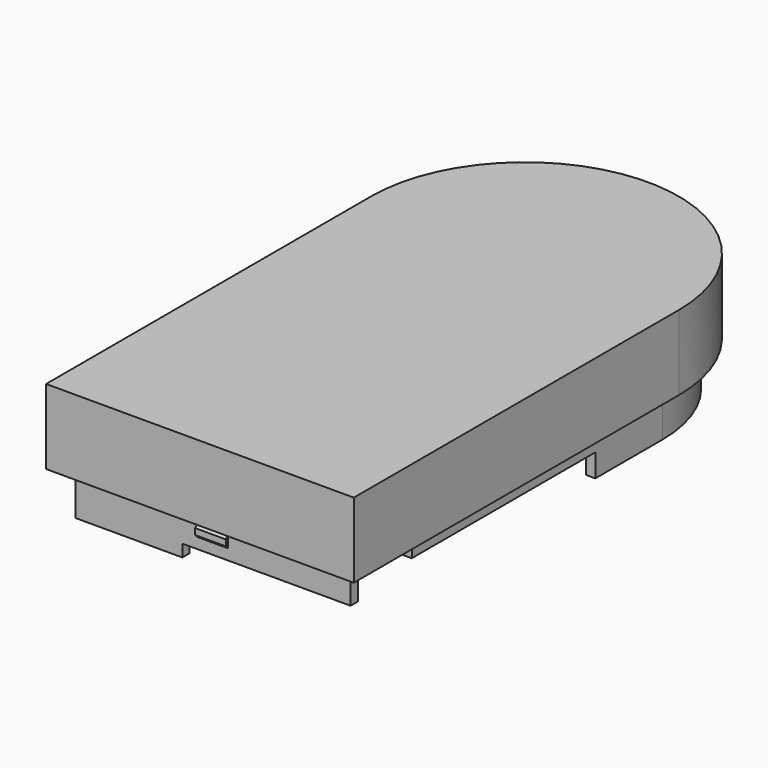
from build123d import *

# Parameters (mm, degrees)
PAD002_DEPTH    = 2.9
PAD003_DEPTH    = 4.9
POCKET005_DEPTH = 4.1
POCKET006_DEPTH = 11
SKETCH011_W     = 10
SKETCH011_H     = 3.6
POCKET007_DEPTH = 5
PAD004_DEPTH    = 2


with BuildPart() as part:
    # Sketch008 (on Face1 of ReferencePocket001) → Pad002 (new body)
    with BuildSketch(Plane.XY.offset(3.9)):
        with BuildLine():
            Line((0.2, 0.2), (18.2000000001, 0.2))
            Line((18.2000000001, 0.2), (18.2000000001, 25.6999686791))
            ThreePointArc((18.2000000001, 25.6999686791), (9.2000000001, 34.6999686791), (0.2, 25.6999686791))
            Line((0.2, 0.2), (0.2, 25.6999686791))
        make_face()
        with BuildLine():
            Line((0.8, 0.8), (17.6000000001, 0.8))
            Line((17.6000000001, 0.8), (17.6000000001, 25.6999686791))
            ThreePointArc((17.6000000001, 25.6999686791), (9.2000000001, 34.0999686791), (0.8, 25.6999686791))
            Line((0.8, 0.8), (0.8, 25.6999686791))
        make_face(mode=Mode.SUBTRACT)
    extrude(amount=-PAD002_DEPTH)

    # Sketch009 (on Face9 of Pad002) → Pad003 (join)
    with BuildSketch(Plane.XY.offset(3.9)):
        with BuildLine():
            Line((-0.86, -0.86), (19.26, -0.86))
            Line((19.26, -0.86), (19.26, 25.7000002895))
            ThreePointArc((19.26, 25.7000002895), (9.1999999842, 35.7600002578), (-0.86, 25.7000002578))
            Line((-0.86, -0.86), (-0.86, 25.7000002578))
        make_face()
    extrude(amount=PAD003_DEPTH)

    # Pad003 Face16 → Pocket005 (cut)
    with BuildSketch(Plane(origin=(9.2000000001, 16.6044557437, 3.9), x_dir=(0, -1, 0), z_dir=(0, 0, -1))):
        with BuildLine():
            Line((15.8044557437, 8.4000000001), (-9.0955129353, 8.4000000001))
            ThreePointArc((-9.0955129353, 8.4000000001), (-17.4955129354, 0), (-9.0955129353, -8.4000000001))
            Line((-9.0955129353, -8.4000000001), (15.8044557437, -8.4000000001))
            Line((15.8044557437, -8.4000000001), (15.8044557437, 8.4000000001))
        make_face()
    extrude(amount=-POCKET005_DEPTH, mode=Mode.SUBTRACT)

    # Sketch010 (on Face8 of Pocket005) → Pocket006 (cut)
    with BuildSketch(Plane.YZ.offset(18.2000000001)):
        Polygon((0.81, 1), (5.2, 1), (20.2, 1), (20.2, 2.5), (5.2, 2.5), (5.2, 5.5), (0.81, 5.5), (0.81, 1.8), (0.2, 1.8), (0.2, 1), align=None)
    extrude(amount=-POCKET006_DEPTH, mode=Mode.SUBTRACT)

    # Sketch011 (on Face12 of Pocket006) → Pocket007 (cut)
    with BuildSketch(Plane(origin=(0.2, 0, 0), x_dir=(0, -1, 0), z_dir=(-1, 0, 0))):
        with Locations((-14, 1.8)):
            Rectangle(SKETCH011_W, SKETCH011_H)
    extrude(amount=-POCKET007_DEPTH, mode=Mode.SUBTRACT)

    # Sketch012 (on Face12 of Pocket007) → Pad004 (join)
    with BuildSketch(Plane(origin=(10.2, 0, 0), x_dir=(0, -1, 0), z_dir=(-1, 0, 0))):
        Polygon((-0.2, 2.5), (0, 2.7), (0, 3.1), (-0.2, 3.3), align=None)
        Polygon((-34.8999686791, 2.6), (-34.8999686791, 3), (-34.4999686791, 3.4), (-34.4999686791, 2.2), align=None)
    extrude(amount=PAD004_DEPTH)


solid = part.part
